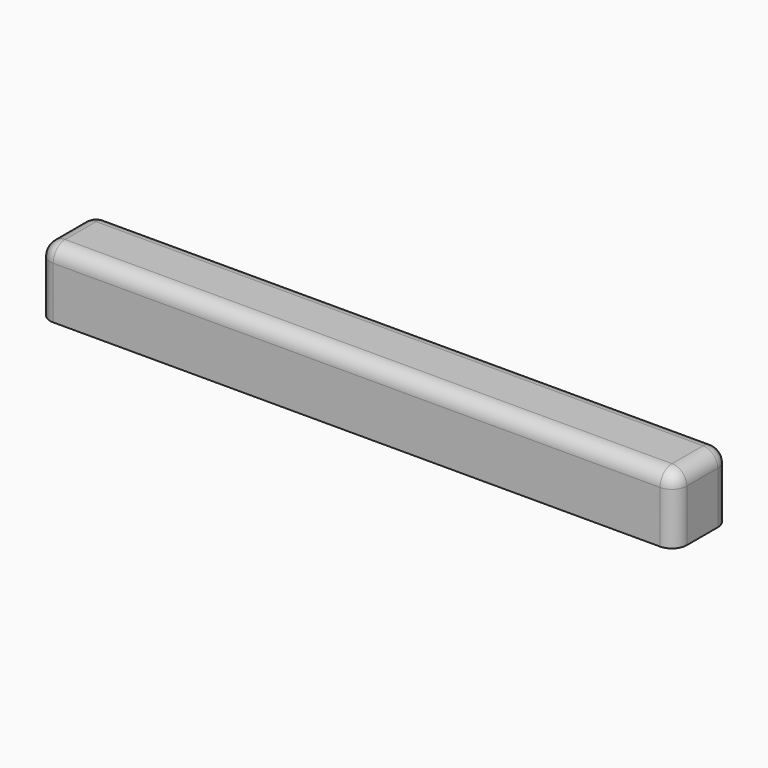
from build123d import *

# Parameters (mm, degrees)
F0_W     = 42.8
F0_H     = 4.6
F0_W_2   = 40.4
F0_H_2   = 2.2
F1_DEPTH = 3
F2_W     = 42.8
F2_H     = 4.6
F3_DEPTH = 1.5
F5_DEPTH = 40.4
F6_SIZE  = 0.2
F7_R     = 1
F9_DEPTH = 4.1197958302


with BuildPart() as f1:
    # F0 (on Top) → F1 (new body)
    with BuildSketch(Plane.XY):
        Rectangle(F0_W, F0_H)
        Rectangle(F0_W_2, F0_H_2, mode=Mode.SUBTRACT)
    extrude(amount=F1_DEPTH)

    # F2 (on face) → F3 (join)
    with BuildSketch(Plane.XY.offset(3)):
        Rectangle(F2_W, F2_H)
    extrude(amount=F3_DEPTH)

    # F4 (on face) → F5 (cut, through all)
    with BuildSketch(Plane.YZ.offset(-20.2)):
        Polygon((-1.1, 3), (1.1, 3), (0, 4.1), align=None)
    extrude(amount=F5_DEPTH, mode=Mode.SUBTRACT)

    # F6
    f6_edges = [f1.edges().sort_by_distance(p)[0] for p in [
        (0, 1.1, 0),
        (-20.2, 0, 0),
        (0, -1.1, 0),
        (20.2, 0, 0),
    ]]
    chamfer(f6_edges, length=F6_SIZE)

    # F7
    f7_edges = [f1.edges().sort_by_distance(p)[0] for p in [
        (-21.4, -2.3, 2.25),
        (-21.4, 2.3, 2.25),
        (-21.4, 0, 4.5),
        (0, 2.3, 4.5),
        (0, -2.3, 4.5),
        (21.4, -2.3, 2.25),
        (21.4, 0, 4.5),
        (21.4, 2.3, 2.25),
    ]]
    fillet(f7_edges, radius=F7_R)

    # F8 (on face) → F9 (join, up to face)
    with BuildSketch(Plane(origin=(0, 0, 0), x_dir=(1, 0, 0), z_dir=(0, 0, -1))):
        with BuildLine():
            Line((-0.4768552317, -1.3), (0.4768552317, -1.3))
            ThreePointArc((0.4768552317, -1.3), (0, -0.9802041698), (-0.4768552317, -1.3))
        make_face()
    extrude(amount=-F9_DEPTH)


solid = f1.part
